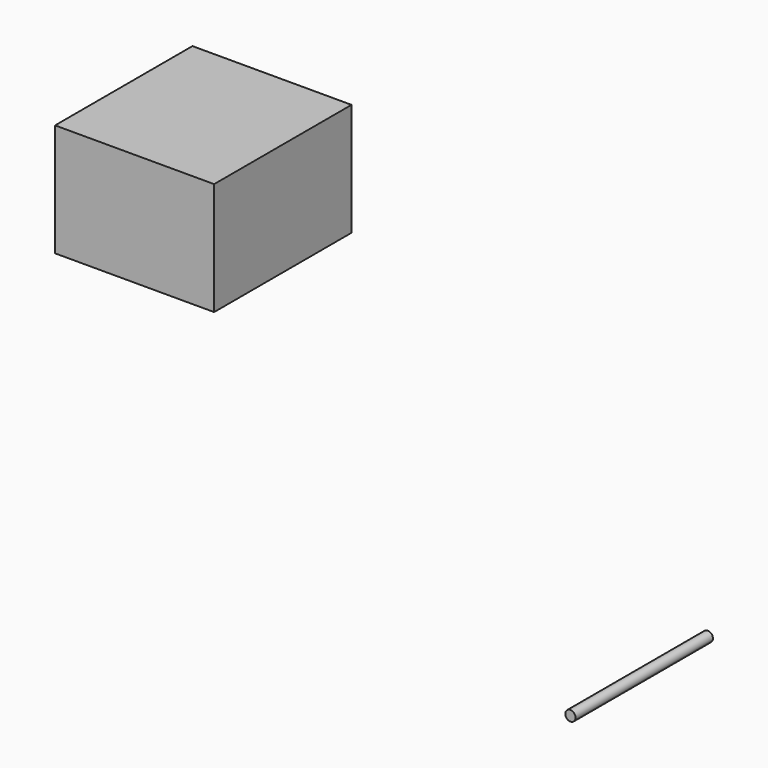
from build123d import *

# Parameters (mm, degrees)
F0_W     = 23.154671
F0_H     = 16.401224
F1_DEPTH = 25


with BuildPart() as f1:
    # F0 (on Front) → F1 (new body)
    with BuildSketch(Plane.XZ):
        with BuildLine():
            ThreePointArc((31.821622, 3), (32.571622, 2.25), (33.321622, 3))
            ThreePointArc((33.321622, 3), (32.571622, 3.75), (31.821622, 3))
        make_face()
        with Locations((-30.872895, 46.068147)):
            Rectangle(F0_W, F0_H)
    extrude(amount=F1_DEPTH)


solid = f1.part
